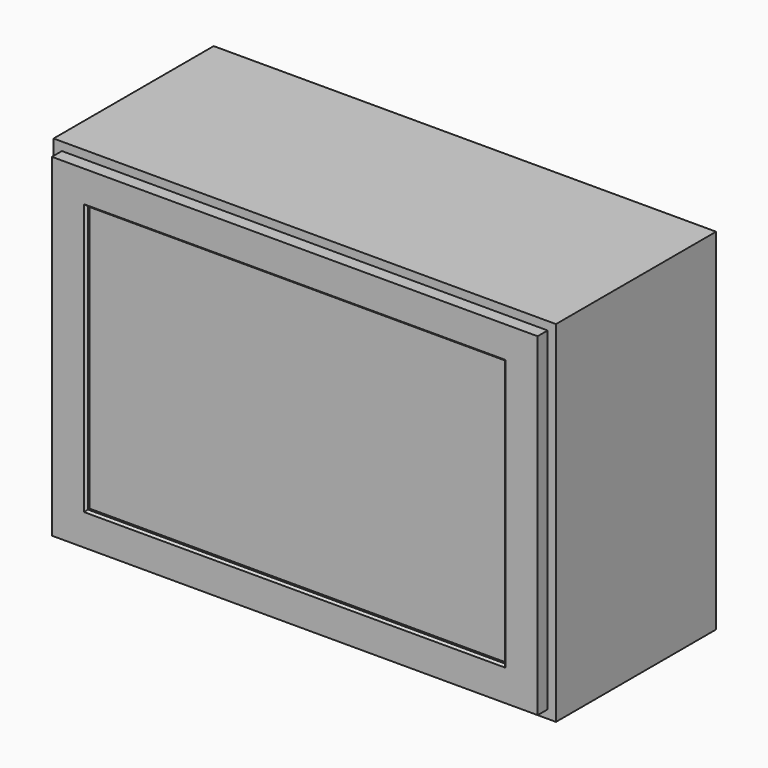
from build123d import *

# Parameters (mm, degrees)
F0_W     = 765.175
F0_H     = 304.8
F1_DEPTH = 533.4
F2_T     = -12.7
F3_W     = 765.175
F3_H     = 533.4
F3_W_2   = 749.3
F3_H_2   = 520.7
F3_W_3   = 739.775
F3_H_3   = 508
F3_W_4   = 682.625
F3_H_4   = 450.85
F4_DEPTH = 19.05
F3_W_5   = 635
F3_H_5   = 406.4
F5_DEPTH = 19.05
F6_W     = 7.9375
F6_H     = 406.4
F7_DEPTH = 635
F8_SIZE  = 3.175


with BuildPart() as f1:
    # F0 (on Top) → F1 (new body)
    with BuildSketch(Plane.XY):
        Rectangle(F0_W, F0_H)
    extrude(amount=F1_DEPTH)

    # F2
    f2_openings = [f1.faces().sort_by_distance(p)[0] for p in [
        (0, -152.4, 266.7),
    ]]
    offset(amount=F2_T, openings=f2_openings)

    # F3 (on face) → F4 (join)
    with BuildSketch(Plane.XZ.offset(152.4)):
        with Locations((0, 266.7)):
            Rectangle(F3_W, F3_H)
        with Locations((0, 266.7)):
            Rectangle(F3_W_2, F3_H_2, mode=Mode.SUBTRACT)
        with Locations((0, 266.7)):
            Rectangle(F3_W_2, F3_H_2)
        with Locations((0, 266.7)):
            Rectangle(F3_W_3, F3_H_3, mode=Mode.SUBTRACT)
        with Locations((0, 266.7)):
            Rectangle(F3_W_3, F3_H_3)
        with Locations((0, 266.7)):
            Rectangle(F3_W_4, F3_H_4, mode=Mode.SUBTRACT)
    extrude(amount=-F4_DEPTH)

    # F3 (on face) → F5 (join)
    with BuildSketch(Plane.XZ.offset(152.4)):
        with Locations((0, 266.7)):
            Rectangle(F3_W_3, F3_H_3)
        with Locations((0, 266.7)):
            Rectangle(F3_W_4, F3_H_4, mode=Mode.SUBTRACT)
        with Locations((0, 266.7)):
            Rectangle(F3_W_4, F3_H_4)
        with Locations((0, 266.7)):
            Rectangle(F3_W_5, F3_H_5, mode=Mode.SUBTRACT)
    extrude(amount=F5_DEPTH)

    # F8
    f8_edges = [f1.edges().sort_by_distance(p)[0] for p in [
        (0, -171.45, 63.5),
        (-317.5, -171.45, 266.7),
        (0, -171.45, 469.9),
        (317.5, -171.45, 266.7),
    ]]
    chamfer(f8_edges, length=F8_SIZE)


with BuildPart() as f7:
    # F6 (on face) → F7 (new body, through all)
    with BuildSketch(Plane(origin=(317.5, 0, 0), x_dir=(0, -1, 0), z_dir=(-1, 0, 0))):
        with Locations((161.13125, 266.7)):
            Rectangle(F6_W, F6_H)
    extrude(amount=F7_DEPTH)


solid = Compound([f1.part, f7.part])
